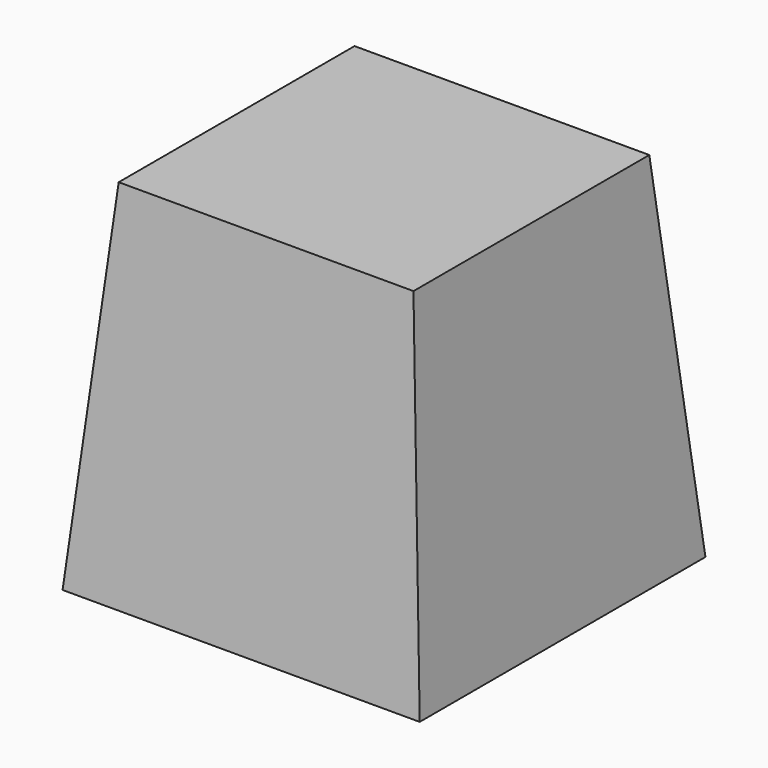
from build123d import *

# Parameters (mm, degrees)
F0_W     = 350
F0_H     = 350
F1_DEPTH = 450
F1_TAPER = -5
F2_T     = 22


with BuildPart() as f1:
    # F0 (on Top) → F1 (new body)
    with BuildSketch(Plane.XY):
        Rectangle(F0_W, F0_H)
    extrude(amount=-F1_DEPTH, taper=F1_TAPER)

    # F2
    f2_openings = [f1.faces().sort_by_distance(p)[0] for p in [
        (0, 0, -450),
    ]]
    offset(amount=F2_T, openings=f2_openings, kind=Kind.INTERSECTION)


solid = f1.part
